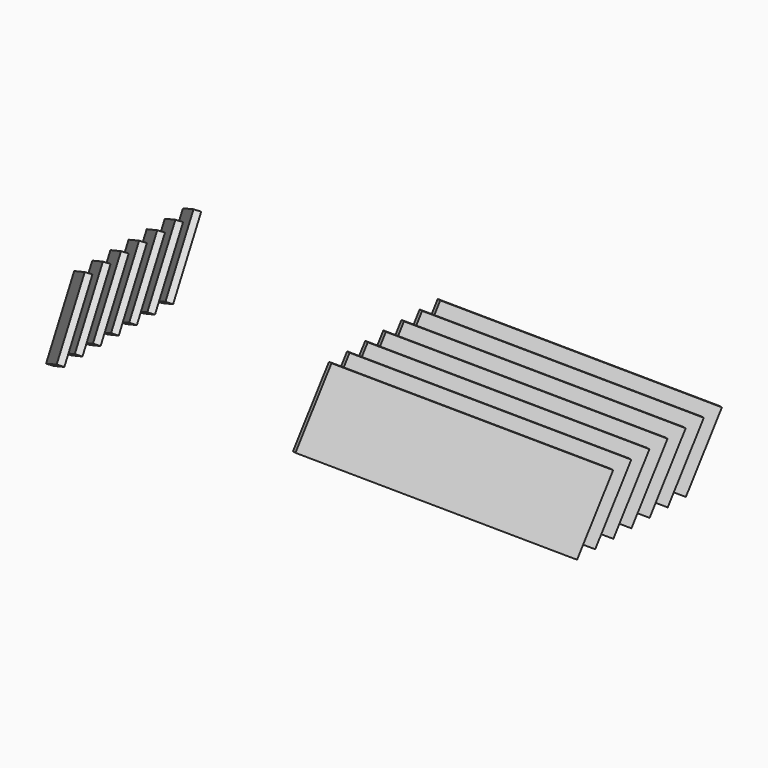
from build123d import *

# Parameters (mm, degrees)
BOX029_W               = 30
BOX029_H               = 2.5
BOX029_DEPTH           = 100
BOX029_ROLL_ANGLE      = 30.72405
BOX029_PITCH_ANGLE     = 57.751092
BOX029_PLACEMENT_ANGLE = -95.67779
BOX030_W               = 30
BOX030_H               = 2.5
BOX030_DEPTH           = 100
BOX030_ROLL_ANGLE      = 30.72405
BOX030_PITCH_ANGLE     = 57.751092
BOX030_PLACEMENT_ANGLE = -95.67779
BOX031_W               = 30
BOX031_H               = 2.5
BOX031_DEPTH           = 100
BOX031_ROLL_ANGLE      = 30.72405
BOX031_PITCH_ANGLE     = 57.751092
BOX031_PLACEMENT_ANGLE = -95.67779
BOX032_W               = 30
BOX032_H               = 2.5
BOX032_DEPTH           = 100
BOX032_ROLL_ANGLE      = 30.72405
BOX032_PITCH_ANGLE     = 57.751092
BOX032_PLACEMENT_ANGLE = -95.67779
BOX033_W               = 30
BOX033_H               = 2.5
BOX033_DEPTH           = 100
BOX033_ROLL_ANGLE      = 30.72405
BOX033_PITCH_ANGLE     = 57.751092
BOX033_PLACEMENT_ANGLE = -95.67779
BOX034_W               = 30
BOX034_H               = 2.5
BOX034_DEPTH           = 100
BOX034_ROLL_ANGLE      = 30.72405
BOX034_PITCH_ANGLE     = 57.751092
BOX034_PLACEMENT_ANGLE = -95.67779
BOX028_W               = 30
BOX028_H               = 2.5
BOX028_DEPTH           = 100
BOX028_ROLL_ANGLE      = 30.72405
BOX028_PITCH_ANGLE     = 57.751092
BOX028_PLACEMENT_ANGLE = -95.67779
BOX008_W               = 30
BOX008_H               = 2.5
BOX008_DEPTH           = 100
BOX008_ROLL_ANGLE      = 30.72405
BOX008_PITCH_ANGLE     = 57.751092
BOX008_PLACEMENT_ANGLE = -95.67779
BOX009_W               = 30
BOX009_H               = 2.5
BOX009_DEPTH           = 100
BOX009_ROLL_ANGLE      = 30.72405
BOX009_PITCH_ANGLE     = 57.751092
BOX009_PLACEMENT_ANGLE = -95.67779
BOX010_W               = 30
BOX010_H               = 2.5
BOX010_DEPTH           = 100
BOX010_ROLL_ANGLE      = 30.72405
BOX010_PITCH_ANGLE     = 57.751092
BOX010_PLACEMENT_ANGLE = -95.67779
BOX011_W               = 30
BOX011_H               = 2.5
BOX011_DEPTH           = 100
BOX011_ROLL_ANGLE      = 30.72405
BOX011_PITCH_ANGLE     = 57.751092
BOX011_PLACEMENT_ANGLE = -95.67779
BOX012_W               = 30
BOX012_H               = 2.5
BOX012_DEPTH           = 100
BOX012_ROLL_ANGLE      = 30.72405
BOX012_PITCH_ANGLE     = 57.751092
BOX012_PLACEMENT_ANGLE = -95.67779
BOX013_W               = 30
BOX013_H               = 2.5
BOX013_DEPTH           = 100
BOX013_ROLL_ANGLE      = 30.72405
BOX013_PITCH_ANGLE     = 57.751092
BOX013_PLACEMENT_ANGLE = -95.67779
BOX007_W               = 30
BOX007_H               = 2.5
BOX007_DEPTH           = 100
BOX007_ROLL_ANGLE      = 30.72405
BOX007_PITCH_ANGLE     = 57.751092
BOX007_PLACEMENT_ANGLE = -95.67779


with BuildPart() as cube029:
    # Box029 → Box029 (new body)
    with BuildSketch(Plane.XY):
        with Locations((15, 1.25)):
            Rectangle(BOX029_W, BOX029_H)
    extrude(amount=BOX029_DEPTH)


with BuildPart() as cube029_1:
    # Box029 roll: moved
    add(cube029.part.rotate(Axis((0, 0, 0), (1, 0, 0)), BOX029_ROLL_ANGLE))


with BuildPart() as cube029_2:
    # Box029 pitch: moved
    add(cube029_1.part.rotate(Axis((0, 0, 0), (0, 1, 0)), BOX029_PITCH_ANGLE))


with BuildPart() as cube029_3:
    # Box029 placement: moved
    add(cube029_2.part.moved(Location((105, 186, 0))).rotate(Axis((105, 186, 0), (0, 0, 1)), BOX029_PLACEMENT_ANGLE))


with BuildPart() as cube030:
    # Box030 → Box030 (new body)
    with BuildSketch(Plane.XY):
        with Locations((15, 1.25)):
            Rectangle(BOX030_W, BOX030_H)
    extrude(amount=BOX030_DEPTH)


with BuildPart() as cube030_1:
    # Box030 roll: moved
    add(cube030.part.rotate(Axis((0, 0, 0), (1, 0, 0)), BOX030_ROLL_ANGLE))


with BuildPart() as cube030_2:
    # Box030 pitch: moved
    add(cube030_1.part.rotate(Axis((0, 0, 0), (0, 1, 0)), BOX030_PITCH_ANGLE))


with BuildPart() as cube030_3:
    # Box030 placement: moved
    add(cube030_2.part.moved(Location((105, 195, 0))).rotate(Axis((105, 195, 0), (0, 0, 1)), BOX030_PLACEMENT_ANGLE))


with BuildPart() as cube031:
    # Box031 → Box031 (new body)
    with BuildSketch(Plane.XY):
        with Locations((15, 1.25)):
            Rectangle(BOX031_W, BOX031_H)
    extrude(amount=BOX031_DEPTH)


with BuildPart() as cube031_1:
    # Box031 roll: moved
    add(cube031.part.rotate(Axis((0, 0, 0), (1, 0, 0)), BOX031_ROLL_ANGLE))


with BuildPart() as cube031_2:
    # Box031 pitch: moved
    add(cube031_1.part.rotate(Axis((0, 0, 0), (0, 1, 0)), BOX031_PITCH_ANGLE))


with BuildPart() as cube031_3:
    # Box031 placement: moved
    add(cube031_2.part.moved(Location((105, 204, 0))).rotate(Axis((105, 204, 0), (0, 0, 1)), BOX031_PLACEMENT_ANGLE))


with BuildPart() as cube032:
    # Box032 → Box032 (new body)
    with BuildSketch(Plane.XY):
        with Locations((15, 1.25)):
            Rectangle(BOX032_W, BOX032_H)
    extrude(amount=BOX032_DEPTH)


with BuildPart() as cube032_1:
    # Box032 roll: moved
    add(cube032.part.rotate(Axis((0, 0, 0), (1, 0, 0)), BOX032_ROLL_ANGLE))


with BuildPart() as cube032_2:
    # Box032 pitch: moved
    add(cube032_1.part.rotate(Axis((0, 0, 0), (0, 1, 0)), BOX032_PITCH_ANGLE))


with BuildPart() as cube032_3:
    # Box032 placement: moved
    add(cube032_2.part.moved(Location((105, 213, 0))).rotate(Axis((105, 213, 0), (0, 0, 1)), BOX032_PLACEMENT_ANGLE))


with BuildPart() as cube033:
    # Box033 → Box033 (new body)
    with BuildSketch(Plane.XY):
        with Locations((15, 1.25)):
            Rectangle(BOX033_W, BOX033_H)
    extrude(amount=BOX033_DEPTH)


with BuildPart() as cube033_1:
    # Box033 roll: moved
    add(cube033.part.rotate(Axis((0, 0, 0), (1, 0, 0)), BOX033_ROLL_ANGLE))


with BuildPart() as cube033_2:
    # Box033 pitch: moved
    add(cube033_1.part.rotate(Axis((0, 0, 0), (0, 1, 0)), BOX033_PITCH_ANGLE))


with BuildPart() as cube033_3:
    # Box033 placement: moved
    add(cube033_2.part.moved(Location((105, 222, 0))).rotate(Axis((105, 222, 0), (0, 0, 1)), BOX033_PLACEMENT_ANGLE))


with BuildPart() as cube034:
    # Box034 → Box034 (new body)
    with BuildSketch(Plane.XY):
        with Locations((15, 1.25)):
            Rectangle(BOX034_W, BOX034_H)
    extrude(amount=BOX034_DEPTH)


with BuildPart() as cube034_1:
    # Box034 roll: moved
    add(cube034.part.rotate(Axis((0, 0, 0), (1, 0, 0)), BOX034_ROLL_ANGLE))


with BuildPart() as cube034_2:
    # Box034 pitch: moved
    add(cube034_1.part.rotate(Axis((0, 0, 0), (0, 1, 0)), BOX034_PITCH_ANGLE))


with BuildPart() as cube034_3:
    # Box034 placement: moved
    add(cube034_2.part.moved(Location((105, 231, 0))).rotate(Axis((105, 231, 0), (0, 0, 1)), BOX034_PLACEMENT_ANGLE))


with BuildPart() as vent004:
    # Box028 → Box028 (new body)
    with BuildSketch(Plane.XY):
        with Locations((15, 1.25)):
            Rectangle(BOX028_W, BOX028_H)
    extrude(amount=BOX028_DEPTH)


with BuildPart() as vent004_1:
    # Box028 roll: moved
    add(vent004.part.rotate(Axis((0, 0, 0), (1, 0, 0)), BOX028_ROLL_ANGLE))


with BuildPart() as vent004_2:
    # Box028 pitch: moved
    add(vent004_1.part.rotate(Axis((0, 0, 0), (0, 1, 0)), BOX028_PITCH_ANGLE))


with BuildPart() as vent004_3:
    # Box028 placement: moved
    add(vent004_2.part.moved(Location((105, 177, 0))).rotate(Axis((105, 177, 0), (0, 0, 1)), BOX028_PLACEMENT_ANGLE))

    # Fusion006: union Cube029, Cube030, Cube031, Cube032, Cube033, Cube034
    add(cube029_3.part)
    add(cube030_3.part)
    add(cube031_3.part)
    add(cube032_3.part)
    add(cube033_3.part)
    add(cube034_3.part)


with BuildPart() as vent004_4:
    # Fusion006 placement: moved
    add(vent004_3.part.moved(Location((0, 101, 11))))


with BuildPart() as part_mirroring001:
    # Part__Mirroring001: instance of Vent004
    add(vent004_4.part.mirror(Plane(origin=(0, 0, 0), x_dir=(0, -1, 0), z_dir=(1, 0, 0))))


with BuildPart() as cube008:
    # Box008 → Box008 (new body)
    with BuildSketch(Plane.XY):
        with Locations((15, 1.25)):
            Rectangle(BOX008_W, BOX008_H)
    extrude(amount=BOX008_DEPTH)


with BuildPart() as cube008_1:
    # Box008 roll: moved
    add(cube008.part.rotate(Axis((0, 0, 0), (1, 0, 0)), BOX008_ROLL_ANGLE))


with BuildPart() as cube008_2:
    # Box008 pitch: moved
    add(cube008_1.part.rotate(Axis((0, 0, 0), (0, 1, 0)), BOX008_PITCH_ANGLE))


with BuildPart() as cube008_3:
    # Box008 placement: moved
    add(cube008_2.part.moved(Location((105, 186, 0))).rotate(Axis((105, 186, 0), (0, 0, 1)), BOX008_PLACEMENT_ANGLE))


with BuildPart() as cube009:
    # Box009 → Box009 (new body)
    with BuildSketch(Plane.XY):
        with Locations((15, 1.25)):
            Rectangle(BOX009_W, BOX009_H)
    extrude(amount=BOX009_DEPTH)


with BuildPart() as cube009_1:
    # Box009 roll: moved
    add(cube009.part.rotate(Axis((0, 0, 0), (1, 0, 0)), BOX009_ROLL_ANGLE))


with BuildPart() as cube009_2:
    # Box009 pitch: moved
    add(cube009_1.part.rotate(Axis((0, 0, 0), (0, 1, 0)), BOX009_PITCH_ANGLE))


with BuildPart() as cube009_3:
    # Box009 placement: moved
    add(cube009_2.part.moved(Location((105, 195, 0))).rotate(Axis((105, 195, 0), (0, 0, 1)), BOX009_PLACEMENT_ANGLE))


with BuildPart() as cube010:
    # Box010 → Box010 (new body)
    with BuildSketch(Plane.XY):
        with Locations((15, 1.25)):
            Rectangle(BOX010_W, BOX010_H)
    extrude(amount=BOX010_DEPTH)


with BuildPart() as cube010_1:
    # Box010 roll: moved
    add(cube010.part.rotate(Axis((0, 0, 0), (1, 0, 0)), BOX010_ROLL_ANGLE))


with BuildPart() as cube010_2:
    # Box010 pitch: moved
    add(cube010_1.part.rotate(Axis((0, 0, 0), (0, 1, 0)), BOX010_PITCH_ANGLE))


with BuildPart() as cube010_3:
    # Box010 placement: moved
    add(cube010_2.part.moved(Location((105, 204, 0))).rotate(Axis((105, 204, 0), (0, 0, 1)), BOX010_PLACEMENT_ANGLE))


with BuildPart() as cube011:
    # Box011 → Box011 (new body)
    with BuildSketch(Plane.XY):
        with Locations((15, 1.25)):
            Rectangle(BOX011_W, BOX011_H)
    extrude(amount=BOX011_DEPTH)


with BuildPart() as cube011_1:
    # Box011 roll: moved
    add(cube011.part.rotate(Axis((0, 0, 0), (1, 0, 0)), BOX011_ROLL_ANGLE))


with BuildPart() as cube011_2:
    # Box011 pitch: moved
    add(cube011_1.part.rotate(Axis((0, 0, 0), (0, 1, 0)), BOX011_PITCH_ANGLE))


with BuildPart() as cube011_3:
    # Box011 placement: moved
    add(cube011_2.part.moved(Location((105, 213, 0))).rotate(Axis((105, 213, 0), (0, 0, 1)), BOX011_PLACEMENT_ANGLE))


with BuildPart() as cube012:
    # Box012 → Box012 (new body)
    with BuildSketch(Plane.XY):
        with Locations((15, 1.25)):
            Rectangle(BOX012_W, BOX012_H)
    extrude(amount=BOX012_DEPTH)


with BuildPart() as cube012_1:
    # Box012 roll: moved
    add(cube012.part.rotate(Axis((0, 0, 0), (1, 0, 0)), BOX012_ROLL_ANGLE))


with BuildPart() as cube012_2:
    # Box012 pitch: moved
    add(cube012_1.part.rotate(Axis((0, 0, 0), (0, 1, 0)), BOX012_PITCH_ANGLE))


with BuildPart() as cube012_3:
    # Box012 placement: moved
    add(cube012_2.part.moved(Location((105, 222, 0))).rotate(Axis((105, 222, 0), (0, 0, 1)), BOX012_PLACEMENT_ANGLE))


with BuildPart() as cube013:
    # Box013 → Box013 (new body)
    with BuildSketch(Plane.XY):
        with Locations((15, 1.25)):
            Rectangle(BOX013_W, BOX013_H)
    extrude(amount=BOX013_DEPTH)


with BuildPart() as cube013_1:
    # Box013 roll: moved
    add(cube013.part.rotate(Axis((0, 0, 0), (1, 0, 0)), BOX013_ROLL_ANGLE))


with BuildPart() as cube013_2:
    # Box013 pitch: moved
    add(cube013_1.part.rotate(Axis((0, 0, 0), (0, 1, 0)), BOX013_PITCH_ANGLE))


with BuildPart() as cube013_3:
    # Box013 placement: moved
    add(cube013_2.part.moved(Location((105, 231, 0))).rotate(Axis((105, 231, 0), (0, 0, 1)), BOX013_PLACEMENT_ANGLE))


with BuildPart() as vent02_both:
    # Box007 → Box007 (new body)
    with BuildSketch(Plane.XY):
        with Locations((15, 1.25)):
            Rectangle(BOX007_W, BOX007_H)
    extrude(amount=BOX007_DEPTH)


with BuildPart() as vent02_both_1:
    # Box007 roll: moved
    add(vent02_both.part.rotate(Axis((0, 0, 0), (1, 0, 0)), BOX007_ROLL_ANGLE))


with BuildPart() as vent02_both_2:
    # Box007 pitch: moved
    add(vent02_both_1.part.rotate(Axis((0, 0, 0), (0, 1, 0)), BOX007_PITCH_ANGLE))


with BuildPart() as vent02_both_3:
    # Box007 placement: moved
    add(vent02_both_2.part.moved(Location((105, 177, 0))).rotate(Axis((105, 177, 0), (0, 0, 1)), BOX007_PLACEMENT_ANGLE))

    # Fusion002: union Cube008, Cube009, Cube010, Cube011, Cube012, Cube013
    add(cube008_3.part)
    add(cube009_3.part)
    add(cube010_3.part)
    add(cube011_3.part)
    add(cube012_3.part)
    add(cube013_3.part)


with BuildPart() as vent02_both_4:
    # Fusion002 placement: moved
    add(vent02_both_3.part.moved(Location((0, 101, 11))))

    # Fusion007: union Part__Mirroring001
    add(part_mirroring001.part)


solid = vent02_both_4.part
